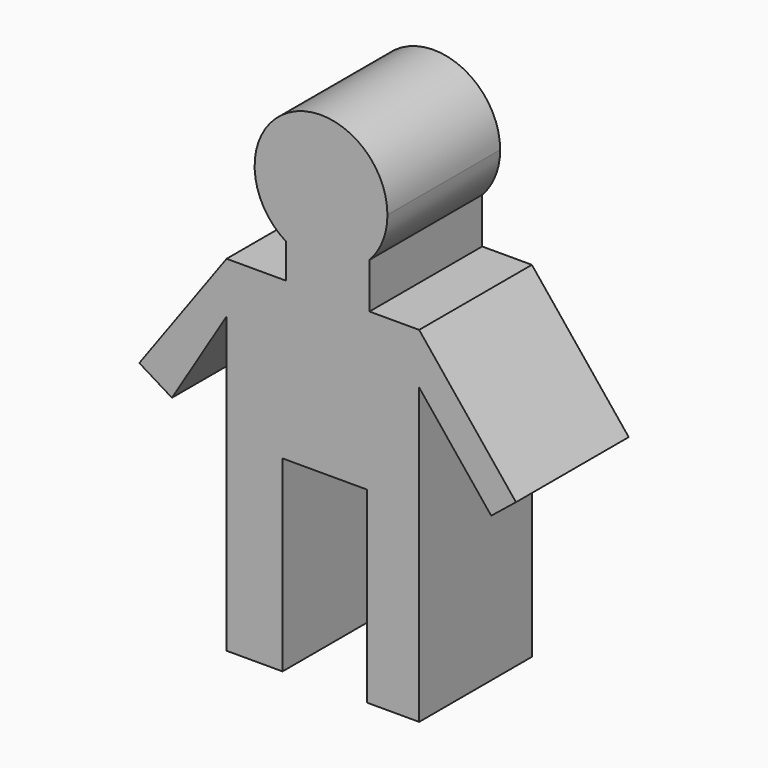
from build123d import *

# Parameters (mm, degrees)
F0_W     = 8.276896
F0_H     = 29.757414
F1_DEPTH = 22.352


with BuildPart() as f1:
    # F0 (on Front) → F1 (new body)
    with BuildSketch(Plane.XZ):
        with BuildLine():
            Line((-14.977241, 46.705347), (-14.977241, 29.954482))
            Line((-14.977241, 29.954482), (-6.109138, 29.757414))
            Line((-6.109138, 29.757414), (7.291551, 29.757414))
            Line((7.291551, 29.757414), (15.568447, 29.757414))
            Line((15.568447, 29.757414), (15.568447, 46.705347))
            Line((15.568447, 46.705347), (26.998451, 32.516379))
            Line((26.998451, 32.516379), (30.929132, 35.682762))
            Line((30.929132, 35.682762), (15.568447, 54.751195))
            Line((15.568447, 54.751195), (7.685689, 54.751195))
            Line((7.685689, 54.751195), (7.685689, 60.303107))
            Line((7.685689, 60.303107), (7.685689, 61.965374))
            ThreePointArc((7.685689, 61.965374), (1.398952, 58.729139), (-5.517932, 60.196449))
            Line((-5.517932, 60.196449), (-5.517932, 54.751195))
            Line((-5.517932, 54.751195), (-14.977241, 54.751195))
            Line((-14.977241, 54.751195), (-14.977241, 46.705347))
        make_face()
        with BuildLine():
            ThreePointArc((10.53536, 69.171205), (-5.141032, 78.367052), (-5.517932, 60.196449))
            ThreePointArc((-5.517932, 60.196449), (1.398952, 58.729139), (7.685689, 61.965374))
            ThreePointArc((7.685689, 61.965374), (9.797074, 65.296782), (10.53536, 69.171205))
        make_face()
        Polygon((-23.648277, 32.516379), (-14.977241, 46.705347), (-14.977241, 54.751195), (-28.82963, 35.682762), align=None)
        Polygon((-14.977241, 29.954482), (-14.977241, 0), (-6.109138, 0), (-6.109138, 29.757414), align=None)
        with Locations((11.429999, 14.878707)):
            Rectangle(F0_W, F0_H)
    extrude(amount=F1_DEPTH)


solid = f1.part
